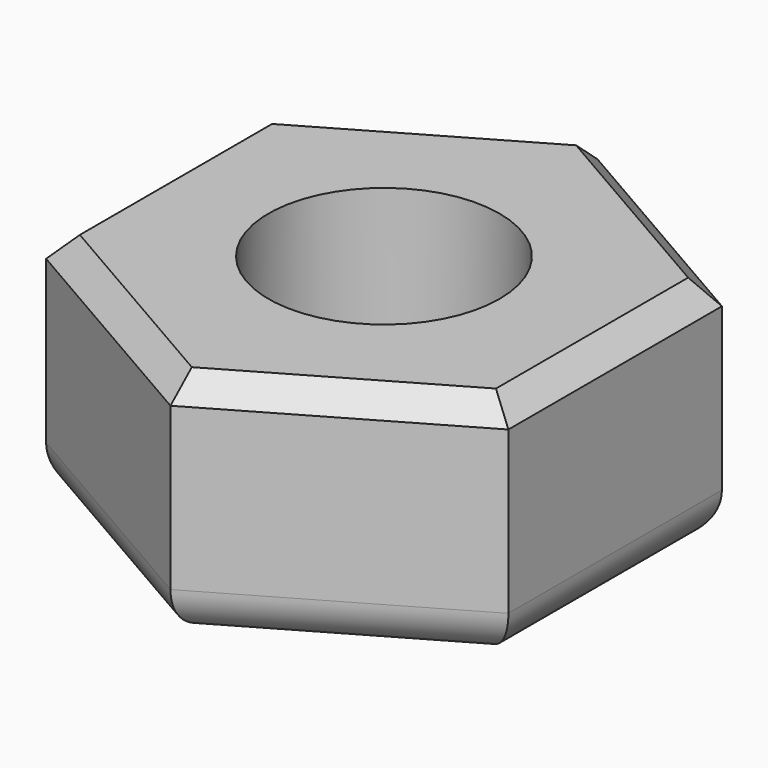
from build123d import *

# Parameters (mm, degrees)
F0_R     = 2.5
F1_DEPTH = 5
F2_R     = 1
F3_SIZE  = 0.5


with BuildPart() as f1:
    # F0 (on Top) → F1 (new body)
    with BuildSketch(Plane.XY):
        Polygon((5, -2.886751), (5, 2.886751), (0, 5.773503), (-5, 2.886751), (-5, -2.886751), (0, -5.773503), align=None)
        Circle(F0_R, mode=Mode.SUBTRACT)
    extrude(amount=F1_DEPTH)

    # F2
    f2_edges = [f1.edges().sort_by_distance(p)[0] for p in [
        (-2.5, -4.330127, 0),
        (2.5, -4.330127, 0),
        (5, 0, 0),
        (2.5, 4.330127, 0),
        (-2.5, 4.330127, 0),
        (-5, 0, 0),
    ]]
    fillet(f2_edges, radius=F2_R)

    # F3
    f3_edges = [f1.edges().sort_by_distance(p)[0] for p in [
        (-2.5, -4.330127, 5),
        (2.5, -4.330127, 5),
        (5, 0, 5),
        (2.5, 4.330127, 5),
        (-2.5, 4.330127, 5),
        (-5, 0, 5),
    ]]
    chamfer(f3_edges, length=F3_SIZE)


solid = f1.part
